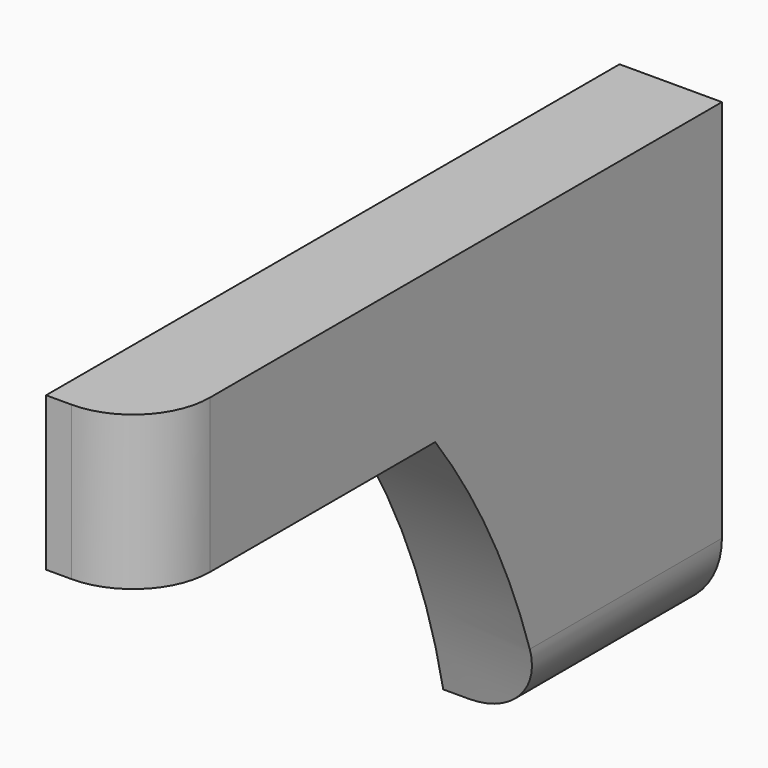
from build123d import *

# Parameters (mm, degrees)
BOX092_W          = 2
BOX092_H          = 14
BOX092_DEPTH      = 3
FILLET012_R       = 1.5
CYLINDER046_R     = 15
CYLINDER046_DEPTH = 4
BOX094_W          = 2
BOX094_H          = 10
BOX094_DEPTH      = 6
FILLET058_R       = 1.5


with BuildPart() as fillet012:
    # Box092 → Box092 (new body)
    with BuildSketch(Plane(origin=(31, 36, -6), x_dir=(1, 0, 0), z_dir=(0, 0, 1))):
        with Locations((1, 7)):
            Rectangle(BOX092_W, BOX092_H)
    extrude(amount=BOX092_DEPTH)

    # Fillet012
    fillet012_edges = [fillet012.edges().sort_by_distance(p)[0] for p in [
        (33, 36, -4.5),
    ]]
    fillet(fillet012_edges, radius=FILLET012_R)


with BuildPart() as cylinder130:
    # Cylinder046 → Cylinder046 (new body)
    with BuildSketch(Plane(origin=(30, 31, -15), x_dir=(0, 0, -1), z_dir=(1, 0, 0))):
        Circle(CYLINDER046_R)
    extrude(amount=CYLINDER046_DEPTH)


with BuildPart() as fusion073:
    # Box094 → Box094 (new body)
    with BuildSketch(Plane(origin=(31, 40, -12), x_dir=(1, 0, 0), z_dir=(0, 0, 1))):
        with Locations((1, 5)):
            Rectangle(BOX094_W, BOX094_H)
    extrude(amount=BOX094_DEPTH)

    # Cut121: cut Cylinder130
    add(cylinder130.part, mode=Mode.SUBTRACT)

    # Fillet058
    fillet058_edges = [fusion073.edges().sort_by_distance(p)[0] for p in [
        (33, 47.848469, -12),
    ]]
    fillet(fillet058_edges, radius=FILLET058_R)

    # Fusion073: union Fillet012
    add(fillet012.part)


solid = fusion073.part
